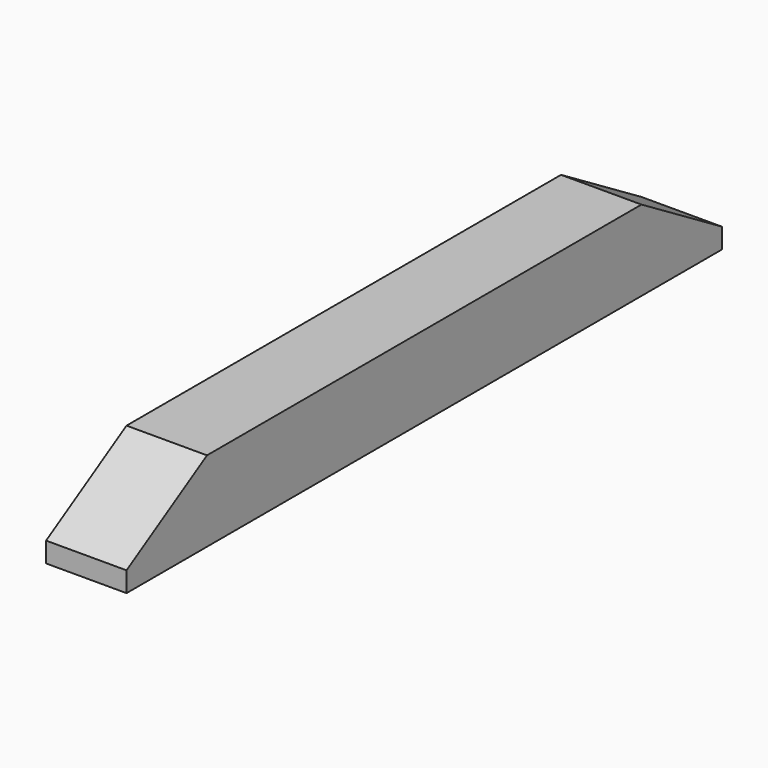
from build123d import *

# Parameters (mm, degrees)
F0_W     = 50.8
F0_H     = 469.9
F1_DEPTH = 50.8
F3_DEPTH = 50.801


with BuildPart() as f1:
    # F0 (on Top) → F1 (new body)
    with BuildSketch(Plane.XY):
        with Locations((25.4, 234.95)):
            Rectangle(F0_W, F0_H)
    extrude(amount=F1_DEPTH)

    # F2 (on face) → F3 (cut, through all)
    with BuildSketch(Plane.YZ.offset(50.8)):
        Polygon((0, 50.8), (0, 12.7), (63.5, 50.8), align=None)
        Polygon((406.4, 50.8), (469.9, 12.7), (469.9, 50.8), align=None)
    extrude(amount=-F3_DEPTH, mode=Mode.SUBTRACT)


solid = f1.part
